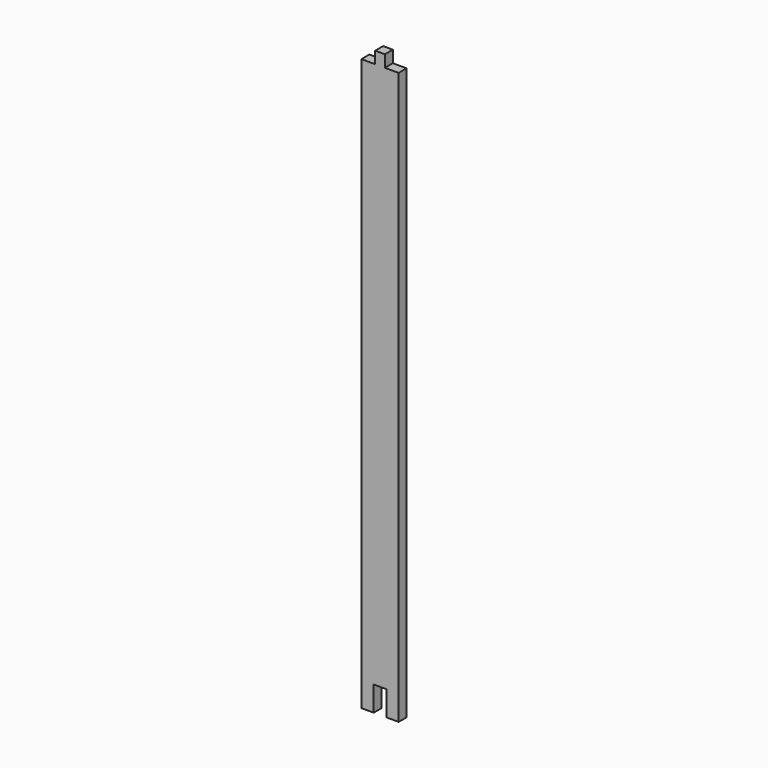
from build123d import *

# Parameters (mm, degrees)
PAD_DEPTH = 2


with BuildPart() as part:
    # Sketch → Pad (new body, symmetric)
    with BuildSketch(Plane.XZ):
        Polygon((-7.5, 230), (-7.5, 0), (-2.55, 0), (-2.55, 10), (2.55, 10), (2.55, 0), (7.5, 0), (7.5, 230), (1.95, 230), (1.95, 234.8), (-1.95, 234.8), (-1.95, 230), align=None)
    extrude(amount=PAD_DEPTH, both=True)


solid = part.part
